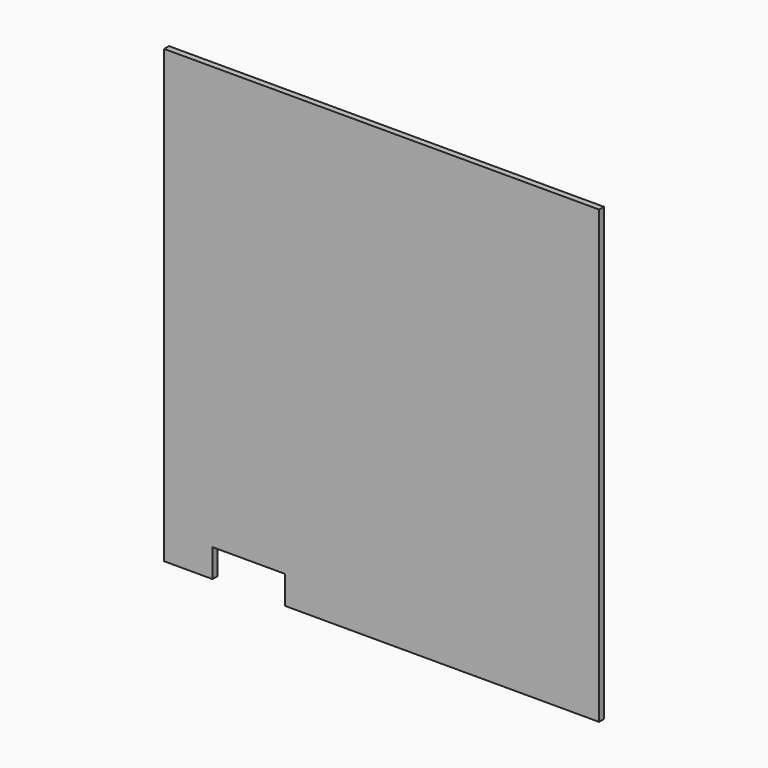
from build123d import *

# Parameters (mm, degrees)
F0_W     = 216
F0_H     = 224
F1_DEPTH = 3
F2_W     = 36
F2_H     = 14
F3_DEPTH = 3.001


with BuildPart() as f1:
    # F0 (on Front) → F1 (new body)
    with BuildSketch(Plane.XZ):
        with Locations((108, 112)):
            Rectangle(F0_W, F0_H)
        with Locations((108, 112)):
            Rectangle(F0_W, F0_H)
    extrude(amount=F1_DEPTH)

    # F2 (on face) → F3 (cut, through all)
    with BuildSketch(Plane.XZ.offset(3)):
        with Locations((42, 7)):
            Rectangle(F2_W, F2_H)
    extrude(amount=-F3_DEPTH, mode=Mode.SUBTRACT)


solid = f1.part
